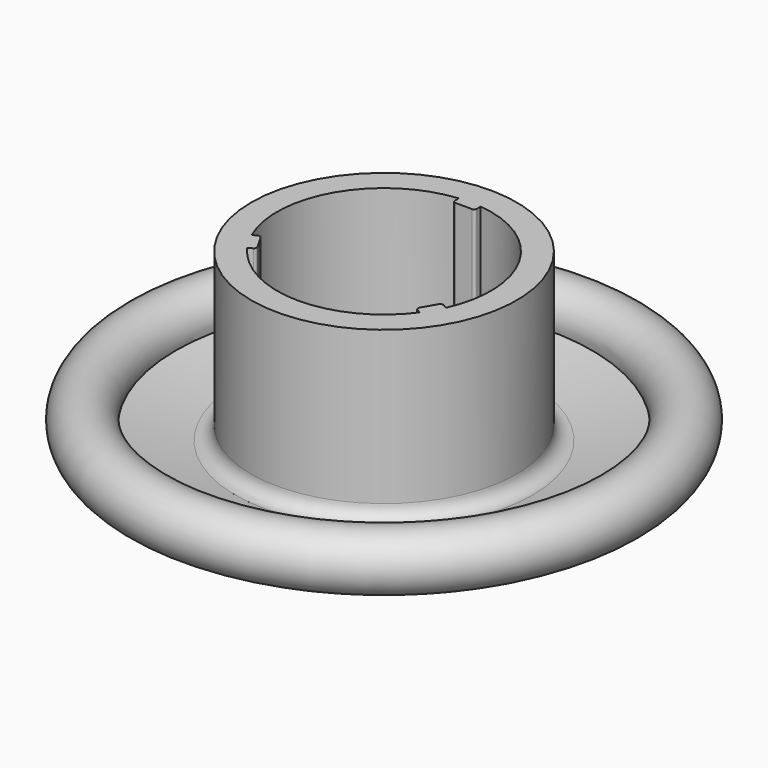
from build123d import *


with BuildPart() as f1:
    # F0 (on Front) → F1 (revolve)
    with BuildSketch(Plane.XZ):
        with BuildLine():
            ThreePointArc((-19.26495263, 4.7162058341), (-23.4311877301, 7.4032080377), (-21.81225, 2.7174278062))
            ThreePointArc((-21.81225, 2.7174278062), (-10.9904352046, 0.6819727379), (0, 0))
            Line((0, 0), (0, 2.54))
            ThreePointArc((0, 2.54), (-4.3954469945, 2.6519296116), (-8.7795002726, 2.9874283067))
            ThreePointArc((-8.7795002726, 2.9874283067), (-9.5826981972, 3.3944935289), (-9.906, 4.2349130346))
            Line((-9.906, 4.2349130346), (-9.906, 19.05))
            Line((-9.906, 19.05), (-12.28725, 19.05))
            Line((-12.28725, 19.05), (-12.28725, 4.8781610439))
            ThreePointArc((-12.28725, 4.8781610439), (-12.7281282932, 3.9235235029), (-13.7407527629, 3.640154155))
            ThreePointArc((-13.7407527629, 3.640154155), (-16.5116207237, 4.1331669751), (-19.26495263, 4.7162058341))
        make_face()
    revolve(axis=Axis((0, 0, 8.8763436288), (0, 0, -1)))

    # F2 (on face) → F3 (join, up to the next surface of F1)
    with BuildSketch(Plane.XY.offset(19.05)):
        with BuildLine():
            Line((-8.6781114985, -3.7650699709), (-9.0670650774, -3.9896324244))
            ThreePointArc((-9.0670650774, -3.9896324244), (-8.6103166462, -4.8980897554), (-8.0628474238, -5.7549393934))
            Line((-8.0628474238, -5.7549393934), (-7.6626567448, -5.5238891971))
            ThreePointArc((-7.6626567448, -5.5238891971), (-7.5443115849, -5.369658782), (-7.5696862922, -5.1769187445))
            Line((-7.5696862922, -5.1769187445), (-7.9189362922, -4.572))
            Line((-7.9189362922, -4.572), (-8.3311410459, -3.8580404235))
            ThreePointArc((-8.3311410459, -3.8580404235), (-8.485371461, -3.7396952636), (-8.6781114985, -3.7650699709))
        make_face()
        with BuildLine():
            ThreePointArc((7.98865557, -5.8574924826), (8.5470284813, -5.0077080726), (9.0153474238, -4.1051609991))
            Line((9.0153474238, -4.1051609991), (8.6151567448, -3.8741108029))
            ThreePointArc((8.6151567448, -3.8741108029), (8.4224167073, -3.8487360956), (8.2681862922, -3.9670812555))
            Line((8.2681862922, -3.9670812555), (7.9189362922, -4.572))
            Line((7.9189362922, -4.572), (7.5067315385, -5.2859595765))
            ThreePointArc((7.5067315385, -5.2859595765), (7.4813568312, -5.478699614), (7.5997019911, -5.6329300291))
            Line((7.5997019911, -5.6329300291), (7.98865557, -5.8574924826))
        make_face()
        with BuildLine():
            ThreePointArc((-0.9525, 9.398), (-0.8781051224, 9.2183948776), (-0.6985, 9.144))
            Line((-0.6985, 9.144), (0, 9.144))
            Line((0, 9.144), (0.8244095074, 9.144))
            ThreePointArc((0.8244095074, 9.144), (1.0040146298, 9.2183948776), (1.0784095074, 9.398))
            Line((1.0784095074, 9.398), (1.0784095074, 9.847124907))
            ThreePointArc((1.0784095074, 9.847124907), (0.0632881649, 9.9057978279), (-0.9525, 9.8601003925))
            Line((-0.9525, 9.8601003925), (-0.9525, 9.398))
        make_face()
    extrude(until=Until.NEXT, dir=(0, 0, -1))


solid = f1.part
